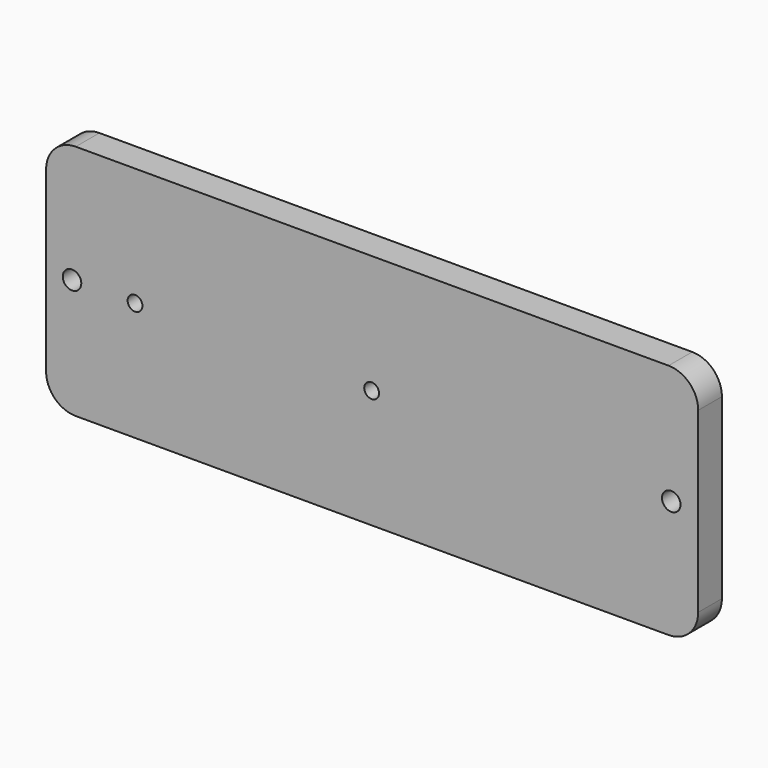
from build123d import *

# Parameters (mm, degrees)
F1_DEPTH = 12.7
F3_D     = 7.9375
F5_D     = 6.35
F7_D     = 6.35


with BuildPart() as f1:
    # F0 (on Front) → F1 (new body)
    with BuildSketch(Plane.XZ):
        with BuildLine():
            Line((127.215293, 50.8), (-126.784707, 50.8))
            ThreePointArc((-126.784707, 50.8), (-135.764963, 47.080256), (-139.484707, 38.1))
            Line((-139.484707, 38.1), (-139.484707, -38.1))
            ThreePointArc((-139.484707, -38.1), (-135.764963, -47.080256), (-126.784707, -50.8))
            Line((-126.784707, -50.8), (127.215293, -50.8))
            ThreePointArc((127.215293, -50.8), (136.195549, -47.080256), (139.915293, -38.1))
            Line((139.915293, -38.1), (139.915293, 38.1))
            ThreePointArc((139.915293, 38.1), (136.195549, 47.080256), (127.215293, 50.8))
        make_face()
    extrude(amount=F1_DEPTH)

    # F3 (through all)
    with Locations(Plane.XZ.offset(12.7)):
        with Locations((-128.372207, 0), (128.372207, 0)):
            Hole(F3_D / 2)

    # F5 (through all)
    with Locations(Plane.XZ.offset(12.7)):
        with Locations((-101.384707, 0)):
            Hole(F5_D / 2)

    # F7 (through all)
    with Locations(Plane.XZ.offset(12.7)):
        with Locations((0, 0)):
            Hole(F7_D / 2)


solid = f1.part
